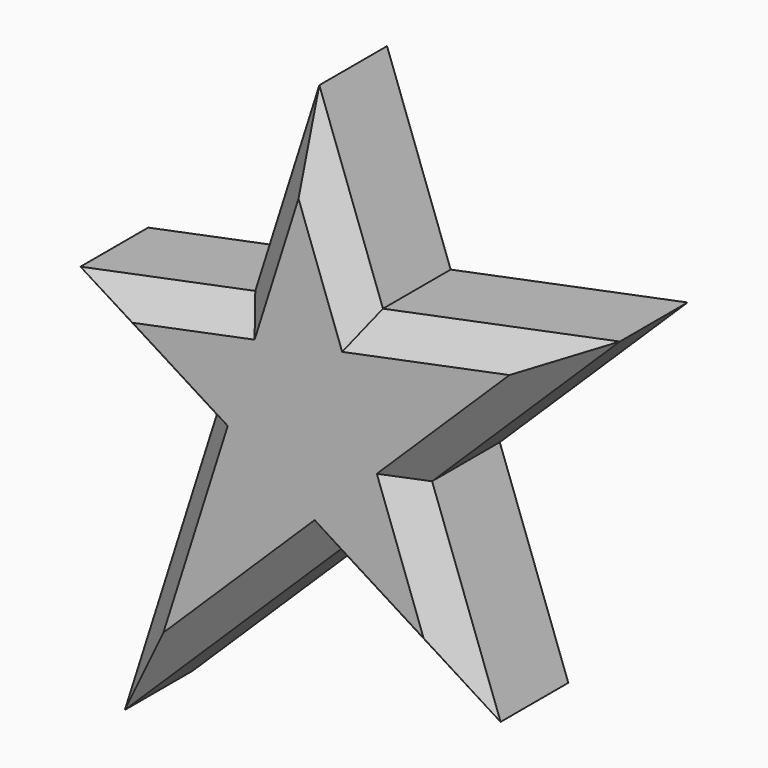
from build123d import *

# Parameters (mm, degrees)
F1_DEPTH = 25.4
F2_SIZE  = 5.08
F3_SIZE  = 5.08


with BuildPart() as f1:
    # F0 (on Front) → F1 (new body)
    with BuildSketch(Plane.XZ):
        Polygon((3.910511, -15.808209), (32.639593, -33.872131), (20.304644, 0.264795), (54.112185, 33.410113), (11.456304, 24.752544), (0, 56.457825), (-11.533625, 20.086437), (-43.014806, 13.69692), (-18.456406, -1.744611), (-35.019126, -53.975292), align=None)
    extrude(amount=F1_DEPTH)

    # F2
    f2_edges = [f1.edges().sort_by_distance(p)[0] for p in [
        (-5.766813, -25.4, 38.272131),
        (-27.274216, -25.4, 16.891679),
        (-15.554307, -25.4, -34.89175),
        (18.275052, -25.4, -24.84017),
        (26.472118, -25.4, -16.803668),
        (37.208414, -25.4, 16.837454),
        (32.784244, -25.4, 29.081329),
        (5.728152, -25.4, 40.605185),
        (-30.735606, -25.4, 5.976154),
        (-26.737766, -25.4, -27.859951),
    ]]
    chamfer(f2_edges, length=F2_SIZE)

    # F3
    f3_edges = [f1.edges().sort_by_distance(p)[0] for p in [
        (-15.554307, 0, -34.89175),
        (18.275052, 0, -24.84017),
        (26.472118, 0, -16.803668),
        (37.208414, 0, 16.837454),
        (32.784244, 0, 29.081329),
        (5.728152, 0, 40.605185),
        (-5.766813, 0, 38.272131),
        (-27.274216, 0, 16.891679),
        (-30.735606, 0, 5.976154),
        (-26.737766, 0, -27.859951),
    ]]
    chamfer(f3_edges, length=F3_SIZE)


solid = f1.part
